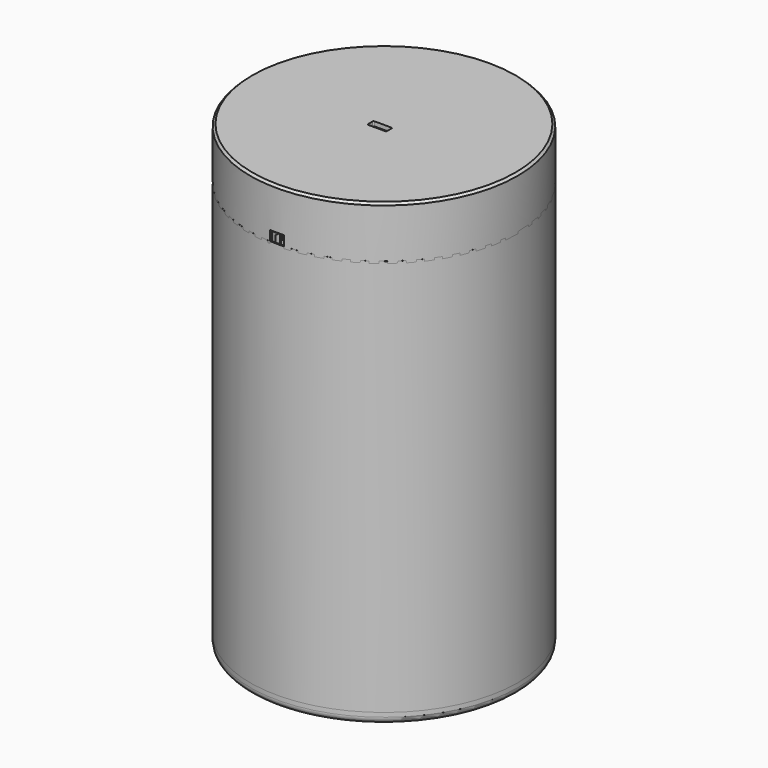
from build123d import *

# Parameters (mm, degrees)
SKETCH_R                = 60
SKETCH_R_2              = 59.5
PAD_DEPTH               = 180
SKETCH001_R             = 59.4
SKETCH001_R_2           = 44.4
PAD001_DEPTH            = 1.5
POCKET_DEPTH            = 1.5
POLARPATTERN_COUNT      = 20
PAD002_DEPTH            = 1.6
FILLET_R                = 3
BODY002_PLACEMENT_ANGLE = -1
SKETCH005_R             = 59.4
SKETCH005_R_2           = 44.4
PAD003_DEPTH            = 1.5
POCKET001_DEPTH         = 1.5
POLARPATTERN001_COUNT   = 20
SKETCH007_R             = 59.4
SKETCH007_R_2           = 44.4
PAD004_DEPTH            = 1.5
POCKET002_DEPTH         = 1.5
POLARPATTERN002_COUNT   = 20
SKETCH008_R             = 59.4
SKETCH008_R_2           = 44.4
PAD005_DEPTH            = 1.5
POCKET003_DEPTH         = 1.5
POLARPATTERN003_COUNT   = 20
SKETCH010_R             = 59.4
SKETCH010_R_2           = 44.4
PAD006_DEPTH            = 1.5
POCKET004_DEPTH         = 1.5
POLARPATTERN004_COUNT   = 20
SKETCH012_R             = 59.4
SKETCH012_R_2           = 44.4
PAD007_DEPTH            = 1.5
POCKET005_DEPTH         = 1.5
POLARPATTERN005_COUNT   = 20
SKETCH014_R             = 59.4
SKETCH014_R_2           = 44.4
PAD008_DEPTH            = 1.5
POCKET006_DEPTH         = 1.5
POLARPATTERN006_COUNT   = 20
SKETCH016_R             = 59.4
SKETCH016_R_2           = 44.4
PAD009_DEPTH            = 1.5
POCKET007_DEPTH         = 1.5
POLARPATTERN007_COUNT   = 20
SKETCH019_R             = 59.4
SKETCH019_R_2           = 44.4
PAD010_DEPTH            = 1.5
POCKET008_DEPTH         = 1.5
POLARPATTERN008_COUNT   = 20
PAD011_DEPTH            = 1.6
FILLET001_R             = 3
BODY011_PLACEMENT_ANGLE = -19
PAD012_DEPTH            = 1.6
FILLET002_R             = 3
BODY012_PLACEMENT_ANGLE = -37
PAD013_DEPTH            = 1.6
FILLET003_R             = 3
BODY013_PLACEMENT_ANGLE = 55
PAD014_DEPTH            = 1.6
FILLET004_R             = 3
BODY014_PLACEMENT_ANGLE = -73
PAD015_DEPTH            = 1.6
FILLET005_R             = 3
BODY015_PLACEMENT_ANGLE = 91
PAD016_DEPTH            = 1.6
FILLET006_R             = 3
BODY016_PLACEMENT_ANGLE = 109
PAD017_DEPTH            = 1.6
FILLET007_R             = 3
BODY017_PLACEMENT_ANGLE = 233
PAD018_DEPTH            = 1.6
FILLET008_R             = 3
BODY018_PLACEMENT_ANGLE = 215
PAD019_DEPTH            = 1.6
FILLET009_R             = 3
BODY019_PLACEMENT_ANGLE = 197
PAD020_DEPTH            = 1.6
FILLET010_R             = 3
BODY020_PLACEMENT_ANGLE = 179
PAD021_DEPTH            = 1.6
FILLET011_R             = 3
BODY021_PLACEMENT_ANGLE = 161
PAD022_DEPTH            = 1.6
FILLET012_R             = 3
BODY022_PLACEMENT_ANGLE = 143
PAD023_DEPTH            = 1.6
FILLET013_R             = 3
BODY023_PLACEMENT_ANGLE = 125
PAD024_DEPTH            = 1.6
FILLET014_R             = 3
BODY024_PLACEMENT_ANGLE = 107
PAD025_DEPTH            = 1.6
FILLET015_R             = 3
BODY025_PLACEMENT_ANGLE = 89
PAD026_DEPTH            = 1.6
FILLET016_R             = 3
BODY026_PLACEMENT_ANGLE = 71
PAD027_DEPTH            = 1.6
FILLET017_R             = 3
BODY027_PLACEMENT_ANGLE = 53
PAD028_DEPTH            = 1.6
FILLET018_R             = 3
BODY028_PLACEMENT_ANGLE = 35
PAD029_DEPTH            = 1.6
FILLET019_R             = 3
BODY029_PLACEMENT_ANGLE = 17
SKETCH039_R             = 60
PAD030_DEPTH            = 9.9
SKETCH040_R             = 57.4
POCKET009_DEPTH         = 8
FILLET020_R             = 3
SKETCH041_R             = 60
SKETCH041_R_2           = 59.4
POCKET010_DEPTH         = 5
CHAMFER_SIZE            = 1
SKETCH042_R             = 60
PAD031_DEPTH            = 30
SKETCH043_R             = 57.4
POCKET011_DEPTH         = 8
SKETCH044_R             = 60
SKETCH044_R_2           = 59.4
POCKET012_DEPTH         = 7
CHAMFER001_SIZE         = 0.5
POCKET013_DEPTH         = 11
POCKET014_DEPTH         = 17
SKETCH047_W             = 28.5
SKETCH047_H             = 9
POCKET015_DEPTH         = 20
POCKET016_DEPTH         = 2.001
CHAMFER002_SIZE         = 1
CHAMFER003_SIZE         = 0.5
CHAMFER004_SIZE         = 1
CHAMFER005_SIZE         = 1
BODY031_PLACEMENT_ANGLE = 180


with BuildPart() as shade:
    # Sketch → Pad (new body)
    with BuildSketch(Plane.XY):
        Circle(SKETCH_R)
        Circle(SKETCH_R_2, mode=Mode.SUBTRACT)
    extrude(amount=PAD_DEPTH)


with BuildPart() as circular_strut1:
    # Sketch001 → Pad001 (new body)
    with BuildSketch(Plane.XY):
        Circle(SKETCH001_R)
        Circle(SKETCH001_R_2, mode=Mode.SUBTRACT)
    extrude(amount=PAD001_DEPTH)

    # Sketch002 (on DatumPlane) → Pocket (cut)
    with BuildSketch(Plane.XY.offset(1.5)):
        Polygon((-0.85, -44.391864), (0.849963, -44.391864), (0.85, -51.391864), (-0.85, -51.391864), align=None)
        Polygon((1.849963, -44.361443), (2.157794, -46.337611), (12.038634, -44.798455), (11.730803, -42.822287), align=None)
    pocket = extrude(amount=-POCKET_DEPTH, mode=Mode.SUBTRACT)

    # PolarPattern: Pocket ×20 about axis
    polarpattern_axis = Axis((0, 0, 1.5), (0, 0, 1))
    for i in range(1, POLARPATTERN_COUNT):
        add(pocket.rotate(polarpattern_axis, i * 360 / POLARPATTERN_COUNT), mode=Mode.SUBTRACT)


with BuildPart() as circular_strut1_1:
    # Body001 placement: moved
    add(circular_strut1.part.moved(Location((0, 0, 23.5))))


with BuildPart() as vertical_strut1:
    # Sketch003 → Pad002 (new body)
    with BuildSketch(Plane.YZ):
        Polygon((-44, 0), (-44, 180), (-56.5, 180), (-56.5, 170), (-59, 170), (-59, 161.6), (-51, 161.6), (-51, 160.2), (-59, 160.2), (-59, 144.7), (-51, 144.7), (-51, 143.3), (-59, 143.3), (-59, 127.8), (-51, 127.8), (-51, 126.4), (-59, 126.4), (-59, 110.9), (-51, 110.9), (-51, 109.5), (-59, 109.5), (-59, 94), (-51, 94), (-51, 92.6), (-59, 92.6), (-59, 77.1), (-51, 77.1), (-51, 75.7), (-59, 75.7), (-59, 60.2), (-51, 60.2), (-51, 58.8), (-59, 58.8), (-59, 43.3), (-51, 43.3), (-51, 41.9), (-59, 41.9), (-59, 25), (-51, 25), (-51, 23.6), (-59, 23.6), (-59, 10), (-56.5, 10), (-56.5, 0), align=None)
    extrude(amount=PAD002_DEPTH)

    # Fillet
    fillet_edges = [vertical_strut1.edges().sort_by_distance(p)[0] for p in [
        (0.8, -44, 180),
        (0.8, -44, 0),
    ]]
    fillet(fillet_edges, radius=FILLET_R)


with BuildPart() as vertical_strut1_1:
    # Body002 placement: moved
    add(vertical_strut1.part.rotate(Axis((0, 0, 0), (0, 0, 1)), BODY002_PLACEMENT_ANGLE))


with BuildPart() as circular_strut2:
    # Sketch005 → Pad003 (new body)
    with BuildSketch(Plane.XY):
        Circle(SKETCH005_R)
        Circle(SKETCH005_R_2, mode=Mode.SUBTRACT)
    extrude(amount=PAD003_DEPTH)

    # Sketch004 (on DatumPlane) → Pocket001 (cut)
    with BuildSketch(Plane.XY.offset(1.5)):
        Polygon((-0.85, -44.391864), (0.849963, -44.391864), (0.85, -51.391864), (-0.85, -51.391864), align=None)
        Polygon((1.849963, -44.361443), (2.157794, -46.337611), (12.038634, -44.798455), (11.730803, -42.822287), align=None)
    pocket001 = extrude(amount=-POCKET001_DEPTH, mode=Mode.SUBTRACT)

    # PolarPattern001: Pocket001 ×20 about axis
    polarpattern001_axis = Axis((0, 0, 1.5), (0, 0, 1))
    for i in range(1, POLARPATTERN001_COUNT):
        add(pocket001.rotate(polarpattern001_axis, i * 360 / POLARPATTERN001_COUNT), mode=Mode.SUBTRACT)


with BuildPart() as circular_strut2_1:
    # Body003 placement: moved
    add(circular_strut2.part.moved(Location((0, 0, 41.9))))


with BuildPart() as circular_strut003:
    # Sketch007 → Pad004 (new body)
    with BuildSketch(Plane.XY):
        Circle(SKETCH007_R)
        Circle(SKETCH007_R_2, mode=Mode.SUBTRACT)
    extrude(amount=PAD004_DEPTH)

    # Sketch006 (on DatumPlane) → Pocket002 (cut)
    with BuildSketch(Plane.XY.offset(1.5)):
        Polygon((-0.85, -44.391864), (0.849963, -44.391864), (0.85, -51.391864), (-0.85, -51.391864), align=None)
        Polygon((1.849963, -44.361443), (2.157794, -46.337611), (12.038634, -44.798455), (11.730803, -42.822287), align=None)
    pocket002 = extrude(amount=-POCKET002_DEPTH, mode=Mode.SUBTRACT)

    # PolarPattern002: Pocket002 ×20 about axis
    polarpattern002_axis = Axis((0, 0, 1.5), (0, 0, 1))
    for i in range(1, POLARPATTERN002_COUNT):
        add(pocket002.rotate(polarpattern002_axis, i * 360 / POLARPATTERN002_COUNT), mode=Mode.SUBTRACT)


with BuildPart() as circular_strut003_1:
    # Body004 placement: moved
    add(circular_strut003.part.moved(Location((0, 0, 58.8))))


with BuildPart() as circular_strut004:
    # Sketch008 → Pad005 (new body)
    with BuildSketch(Plane.XY):
        Circle(SKETCH008_R)
        Circle(SKETCH008_R_2, mode=Mode.SUBTRACT)
    extrude(amount=PAD005_DEPTH)

    # Sketch009 (on DatumPlane) → Pocket003 (cut)
    with BuildSketch(Plane.XY.offset(1.5)):
        Polygon((-0.85, -44.391864), (0.849963, -44.391864), (0.85, -51.391864), (-0.85, -51.391864), align=None)
        Polygon((1.849963, -44.361443), (2.157794, -46.337611), (12.038634, -44.798455), (11.730803, -42.822287), align=None)
    pocket003 = extrude(amount=-POCKET003_DEPTH, mode=Mode.SUBTRACT)

    # PolarPattern003: Pocket003 ×20 about axis
    polarpattern003_axis = Axis((0, 0, 1.5), (0, 0, 1))
    for i in range(1, POLARPATTERN003_COUNT):
        add(pocket003.rotate(polarpattern003_axis, i * 360 / POLARPATTERN003_COUNT), mode=Mode.SUBTRACT)


with BuildPart() as circular_strut004_1:
    # Body005 placement: moved
    add(circular_strut004.part.moved(Location((0, 0, 75.6))))


with BuildPart() as circular_strut005:
    # Sketch010 → Pad006 (new body)
    with BuildSketch(Plane.XY):
        Circle(SKETCH010_R)
        Circle(SKETCH010_R_2, mode=Mode.SUBTRACT)
    extrude(amount=PAD006_DEPTH)

    # Sketch011 (on DatumPlane) → Pocket004 (cut)
    with BuildSketch(Plane.XY.offset(1.5)):
        Polygon((-0.85, -44.391864), (0.849963, -44.391864), (0.85, -51.391864), (-0.85, -51.391864), align=None)
        Polygon((1.849963, -44.361443), (2.157794, -46.337611), (12.038634, -44.798455), (11.730803, -42.822287), align=None)
    pocket004 = extrude(amount=-POCKET004_DEPTH, mode=Mode.SUBTRACT)

    # PolarPattern004: Pocket004 ×20 about axis
    polarpattern004_axis = Axis((0, 0, 1.5), (0, 0, 1))
    for i in range(1, POLARPATTERN004_COUNT):
        add(pocket004.rotate(polarpattern004_axis, i * 360 / POLARPATTERN004_COUNT), mode=Mode.SUBTRACT)


with BuildPart() as circular_strut005_1:
    # Body006 placement: moved
    add(circular_strut005.part.moved(Location((0, 0, 92.4))))


with BuildPart() as circular_strut006:
    # Sketch012 → Pad007 (new body)
    with BuildSketch(Plane.XY):
        Circle(SKETCH012_R)
        Circle(SKETCH012_R_2, mode=Mode.SUBTRACT)
    extrude(amount=PAD007_DEPTH)

    # Sketch013 (on DatumPlane) → Pocket005 (cut)
    with BuildSketch(Plane.XY.offset(1.5)):
        Polygon((-0.85, -44.391864), (0.849963, -44.391864), (0.85, -51.391864), (-0.85, -51.391864), align=None)
        Polygon((1.849963, -44.361443), (2.157794, -46.337611), (12.038634, -44.798455), (11.730803, -42.822287), align=None)
    pocket005 = extrude(amount=-POCKET005_DEPTH, mode=Mode.SUBTRACT)

    # PolarPattern005: Pocket005 ×20 about axis
    polarpattern005_axis = Axis((0, 0, 1.5), (0, 0, 1))
    for i in range(1, POLARPATTERN005_COUNT):
        add(pocket005.rotate(polarpattern005_axis, i * 360 / POLARPATTERN005_COUNT), mode=Mode.SUBTRACT)


with BuildPart() as circular_strut006_1:
    # Body007 placement: moved
    add(circular_strut006.part.moved(Location((0, 0, 109.2))))


with BuildPart() as circular_strut007:
    # Sketch014 → Pad008 (new body)
    with BuildSketch(Plane.XY):
        Circle(SKETCH014_R)
        Circle(SKETCH014_R_2, mode=Mode.SUBTRACT)
    extrude(amount=PAD008_DEPTH)

    # Sketch015 (on DatumPlane) → Pocket006 (cut)
    with BuildSketch(Plane.XY.offset(1.5)):
        Polygon((-0.85, -44.391864), (0.849963, -44.391864), (0.85, -51.391864), (-0.85, -51.391864), align=None)
        Polygon((1.849963, -44.361443), (2.157794, -46.337611), (12.038634, -44.798455), (11.730803, -42.822287), align=None)
    pocket006 = extrude(amount=-POCKET006_DEPTH, mode=Mode.SUBTRACT)

    # PolarPattern006: Pocket006 ×20 about axis
    polarpattern006_axis = Axis((0, 0, 1.5), (0, 0, 1))
    for i in range(1, POLARPATTERN006_COUNT):
        add(pocket006.rotate(polarpattern006_axis, i * 360 / POLARPATTERN006_COUNT), mode=Mode.SUBTRACT)


with BuildPart() as circular_strut007_1:
    # Body008 placement: moved
    add(circular_strut007.part.moved(Location((0, 0, 126))))


with BuildPart() as circular_strut008:
    # Sketch016 → Pad009 (new body)
    with BuildSketch(Plane.XY):
        Circle(SKETCH016_R)
        Circle(SKETCH016_R_2, mode=Mode.SUBTRACT)
    extrude(amount=PAD009_DEPTH)

    # Sketch017 (on DatumPlane) → Pocket007 (cut)
    with BuildSketch(Plane.XY.offset(1.5)):
        Polygon((-0.85, -44.391864), (0.849963, -44.391864), (0.85, -51.391864), (-0.85, -51.391864), align=None)
        Polygon((1.849963, -44.361443), (2.157794, -46.337611), (12.038634, -44.798455), (11.730803, -42.822287), align=None)
    pocket007 = extrude(amount=-POCKET007_DEPTH, mode=Mode.SUBTRACT)

    # PolarPattern007: Pocket007 ×20 about axis
    polarpattern007_axis = Axis((0, 0, 1.5), (0, 0, 1))
    for i in range(1, POLARPATTERN007_COUNT):
        add(pocket007.rotate(polarpattern007_axis, i * 360 / POLARPATTERN007_COUNT), mode=Mode.SUBTRACT)


with BuildPart() as circular_strut008_1:
    # Body009 placement: moved
    add(circular_strut008.part.moved(Location((0, 0, 142.8))))


with BuildPart() as circular_strut009:
    # Sketch019 → Pad010 (new body)
    with BuildSketch(Plane.XY):
        Circle(SKETCH019_R)
        Circle(SKETCH019_R_2, mode=Mode.SUBTRACT)
    extrude(amount=PAD010_DEPTH)

    # Sketch018 (on DatumPlane) → Pocket008 (cut)
    with BuildSketch(Plane.XY.offset(1.5)):
        Polygon((-0.85, -44.391864), (0.849963, -44.391864), (0.85, -51.391864), (-0.85, -51.391864), align=None)
        Polygon((1.849963, -44.361443), (2.157794, -46.337611), (12.038634, -44.798455), (11.730803, -42.822287), align=None)
    pocket008 = extrude(amount=-POCKET008_DEPTH, mode=Mode.SUBTRACT)

    # PolarPattern008: Pocket008 ×20 about axis
    polarpattern008_axis = Axis((0, 0, 1.5), (0, 0, 1))
    for i in range(1, POLARPATTERN008_COUNT):
        add(pocket008.rotate(polarpattern008_axis, i * 360 / POLARPATTERN008_COUNT), mode=Mode.SUBTRACT)


with BuildPart() as circular_strut009_1:
    # Body010 placement: moved
    add(circular_strut009.part.moved(Location((0, 0, 159.6))))


with BuildPart() as vertical_strut002:
    # Sketch020 → Pad011 (new body)
    with BuildSketch(Plane.YZ):
        Polygon((-44, 0), (-44, 180), (-56.5, 180), (-56.5, 170), (-59, 170), (-59, 161.6), (-51, 161.6), (-51, 160.2), (-59, 160.2), (-59, 144.7), (-51, 144.7), (-51, 143.3), (-59, 143.3), (-59, 127.8), (-51, 127.8), (-51, 126.4), (-59, 126.4), (-59, 110.9), (-51, 110.9), (-51, 109.5), (-59, 109.5), (-59, 94), (-51, 94), (-51, 92.6), (-59, 92.6), (-59, 77.1), (-51, 77.1), (-51, 75.7), (-59, 75.7), (-59, 60.2), (-51, 60.2), (-51, 58.8), (-59, 58.8), (-59, 43.3), (-51, 43.3), (-51, 41.9), (-59, 41.9), (-59, 25), (-51, 25), (-51, 23.6), (-59, 23.6), (-59, 10), (-56.5, 10), (-56.5, 0), align=None)
    extrude(amount=PAD011_DEPTH)

    # Fillet001
    fillet001_edges = [vertical_strut002.edges().sort_by_distance(p)[0] for p in [
        (0.8, -44, 180),
        (0.8, -44, 0),
    ]]
    fillet(fillet001_edges, radius=FILLET001_R)


with BuildPart() as vertical_strut002_1:
    # Body011 placement: moved
    add(vertical_strut002.part.rotate(Axis((0, 0, 0), (0, 0, 1)), BODY011_PLACEMENT_ANGLE))


with BuildPart() as vertical_strut003:
    # Sketch021 → Pad012 (new body)
    with BuildSketch(Plane.YZ):
        Polygon((-44, 0), (-44, 180), (-56.5, 180), (-56.5, 170), (-59, 170), (-59, 161.6), (-51, 161.6), (-51, 160.2), (-59, 160.2), (-59, 144.7), (-51, 144.7), (-51, 143.3), (-59, 143.3), (-59, 127.8), (-51, 127.8), (-51, 126.4), (-59, 126.4), (-59, 110.9), (-51, 110.9), (-51, 109.5), (-59, 109.5), (-59, 94), (-51, 94), (-51, 92.6), (-59, 92.6), (-59, 77.1), (-51, 77.1), (-51, 75.7), (-59, 75.7), (-59, 60.2), (-51, 60.2), (-51, 58.8), (-59, 58.8), (-59, 43.3), (-51, 43.3), (-51, 41.9), (-59, 41.9), (-59, 25), (-51, 25), (-51, 23.6), (-59, 23.6), (-59, 10), (-56.5, 10), (-56.5, 0), align=None)
    extrude(amount=PAD012_DEPTH)

    # Fillet002
    fillet002_edges = [vertical_strut003.edges().sort_by_distance(p)[0] for p in [
        (0.8, -44, 180),
        (0.8, -44, 0),
    ]]
    fillet(fillet002_edges, radius=FILLET002_R)


with BuildPart() as vertical_strut003_1:
    # Body012 placement: moved
    add(vertical_strut003.part.rotate(Axis((0, 0, 0), (0, 0, 1)), BODY012_PLACEMENT_ANGLE))


with BuildPart() as vertical_strut004:
    # Sketch022 → Pad013 (new body)
    with BuildSketch(Plane.YZ):
        Polygon((-44, 0), (-44, 180), (-56.5, 180), (-56.5, 170), (-59, 170), (-59, 161.6), (-51, 161.6), (-51, 160.2), (-59, 160.2), (-59, 144.7), (-51, 144.7), (-51, 143.3), (-59, 143.3), (-59, 127.8), (-51, 127.8), (-51, 126.4), (-59, 126.4), (-59, 110.9), (-51, 110.9), (-51, 109.5), (-59, 109.5), (-59, 94), (-51, 94), (-51, 92.6), (-59, 92.6), (-59, 77.1), (-51, 77.1), (-51, 75.7), (-59, 75.7), (-59, 60.2), (-51, 60.2), (-51, 58.8), (-59, 58.8), (-59, 43.3), (-51, 43.3), (-51, 41.9), (-59, 41.9), (-59, 25), (-51, 25), (-51, 23.6), (-59, 23.6), (-59, 10), (-56.5, 10), (-56.5, 0), align=None)
    extrude(amount=PAD013_DEPTH)

    # Fillet003
    fillet003_edges = [vertical_strut004.edges().sort_by_distance(p)[0] for p in [
        (0.8, -44, 180),
        (0.8, -44, 0),
    ]]
    fillet(fillet003_edges, radius=FILLET003_R)


with BuildPart() as vertical_strut004_1:
    # Body013 placement: moved
    add(vertical_strut004.part.rotate(Axis((0, 0, 0), (0, 0, -1)), BODY013_PLACEMENT_ANGLE))


with BuildPart() as vertical_strut005:
    # Sketch023 → Pad014 (new body)
    with BuildSketch(Plane.YZ):
        Polygon((-44, 0), (-44, 180), (-56.5, 180), (-56.5, 170), (-59, 170), (-59, 161.6), (-51, 161.6), (-51, 160.2), (-59, 160.2), (-59, 144.7), (-51, 144.7), (-51, 143.3), (-59, 143.3), (-59, 127.8), (-51, 127.8), (-51, 126.4), (-59, 126.4), (-59, 110.9), (-51, 110.9), (-51, 109.5), (-59, 109.5), (-59, 94), (-51, 94), (-51, 92.6), (-59, 92.6), (-59, 77.1), (-51, 77.1), (-51, 75.7), (-59, 75.7), (-59, 60.2), (-51, 60.2), (-51, 58.8), (-59, 58.8), (-59, 43.3), (-51, 43.3), (-51, 41.9), (-59, 41.9), (-59, 25), (-51, 25), (-51, 23.6), (-59, 23.6), (-59, 10), (-56.5, 10), (-56.5, 0), align=None)
    extrude(amount=PAD014_DEPTH)

    # Fillet004
    fillet004_edges = [vertical_strut005.edges().sort_by_distance(p)[0] for p in [
        (0.8, -44, 180),
        (0.8, -44, 0),
    ]]
    fillet(fillet004_edges, radius=FILLET004_R)


with BuildPart() as vertical_strut005_1:
    # Body014 placement: moved
    add(vertical_strut005.part.rotate(Axis((0, 0, 0), (0, 0, 1)), BODY014_PLACEMENT_ANGLE))


with BuildPart() as vertical_strut006:
    # Sketch024 → Pad015 (new body)
    with BuildSketch(Plane.YZ):
        Polygon((-44, 0), (-44, 180), (-56.5, 180), (-56.5, 170), (-59, 170), (-59, 161.6), (-51, 161.6), (-51, 160.2), (-59, 160.2), (-59, 144.7), (-51, 144.7), (-51, 143.3), (-59, 143.3), (-59, 127.8), (-51, 127.8), (-51, 126.4), (-59, 126.4), (-59, 110.9), (-51, 110.9), (-51, 109.5), (-59, 109.5), (-59, 94), (-51, 94), (-51, 92.6), (-59, 92.6), (-59, 77.1), (-51, 77.1), (-51, 75.7), (-59, 75.7), (-59, 60.2), (-51, 60.2), (-51, 58.8), (-59, 58.8), (-59, 43.3), (-51, 43.3), (-51, 41.9), (-59, 41.9), (-59, 25), (-51, 25), (-51, 23.6), (-59, 23.6), (-59, 10), (-56.5, 10), (-56.5, 0), align=None)
    extrude(amount=PAD015_DEPTH)

    # Fillet005
    fillet005_edges = [vertical_strut006.edges().sort_by_distance(p)[0] for p in [
        (0.8, -44, 180),
        (0.8, -44, 0),
    ]]
    fillet(fillet005_edges, radius=FILLET005_R)


with BuildPart() as vertical_strut006_1:
    # Body015 placement: moved
    add(vertical_strut006.part.rotate(Axis((0, 0, 0), (0, 0, -1)), BODY015_PLACEMENT_ANGLE))


with BuildPart() as vertical_strut007:
    # Sketch025 → Pad016 (new body)
    with BuildSketch(Plane.YZ):
        Polygon((-44, 0), (-44, 180), (-56.5, 180), (-56.5, 170), (-59, 170), (-59, 161.6), (-51, 161.6), (-51, 160.2), (-59, 160.2), (-59, 144.7), (-51, 144.7), (-51, 143.3), (-59, 143.3), (-59, 127.8), (-51, 127.8), (-51, 126.4), (-59, 126.4), (-59, 110.9), (-51, 110.9), (-51, 109.5), (-59, 109.5), (-59, 94), (-51, 94), (-51, 92.6), (-59, 92.6), (-59, 77.1), (-51, 77.1), (-51, 75.7), (-59, 75.7), (-59, 60.2), (-51, 60.2), (-51, 58.8), (-59, 58.8), (-59, 43.3), (-51, 43.3), (-51, 41.9), (-59, 41.9), (-59, 25), (-51, 25), (-51, 23.6), (-59, 23.6), (-59, 10), (-56.5, 10), (-56.5, 0), align=None)
    extrude(amount=PAD016_DEPTH)

    # Fillet006
    fillet006_edges = [vertical_strut007.edges().sort_by_distance(p)[0] for p in [
        (0.8, -44, 180),
        (0.8, -44, 0),
    ]]
    fillet(fillet006_edges, radius=FILLET006_R)


with BuildPart() as vertical_strut007_1:
    # Body016 placement: moved
    add(vertical_strut007.part.rotate(Axis((0, 0, 0), (0, 0, -1)), BODY016_PLACEMENT_ANGLE))


with BuildPart() as vertical_strut008:
    # Sketch026 → Pad017 (new body)
    with BuildSketch(Plane.YZ):
        Polygon((-44, 0), (-44, 180), (-56.5, 180), (-56.5, 170), (-59, 170), (-59, 161.6), (-51, 161.6), (-51, 160.2), (-59, 160.2), (-59, 144.7), (-51, 144.7), (-51, 143.3), (-59, 143.3), (-59, 127.8), (-51, 127.8), (-51, 126.4), (-59, 126.4), (-59, 110.9), (-51, 110.9), (-51, 109.5), (-59, 109.5), (-59, 94), (-51, 94), (-51, 92.6), (-59, 92.6), (-59, 77.1), (-51, 77.1), (-51, 75.7), (-59, 75.7), (-59, 60.2), (-51, 60.2), (-51, 58.8), (-59, 58.8), (-59, 43.3), (-51, 43.3), (-51, 41.9), (-59, 41.9), (-59, 25), (-51, 25), (-51, 23.6), (-59, 23.6), (-59, 10), (-56.5, 10), (-56.5, 0), align=None)
    extrude(amount=PAD017_DEPTH)

    # Fillet007
    fillet007_edges = [vertical_strut008.edges().sort_by_distance(p)[0] for p in [
        (0.8, -44, 180),
        (0.8, -44, 0),
    ]]
    fillet(fillet007_edges, radius=FILLET007_R)


with BuildPart() as vertical_strut008_1:
    # Body017 placement: moved
    add(vertical_strut008.part.rotate(Axis((0, 0, 0), (0, 0, 1)), BODY017_PLACEMENT_ANGLE))


with BuildPart() as vertical_strut009:
    # Sketch027 → Pad018 (new body)
    with BuildSketch(Plane.YZ):
        Polygon((-44, 0), (-44, 180), (-56.5, 180), (-56.5, 170), (-59, 170), (-59, 161.6), (-51, 161.6), (-51, 160.2), (-59, 160.2), (-59, 144.7), (-51, 144.7), (-51, 143.3), (-59, 143.3), (-59, 127.8), (-51, 127.8), (-51, 126.4), (-59, 126.4), (-59, 110.9), (-51, 110.9), (-51, 109.5), (-59, 109.5), (-59, 94), (-51, 94), (-51, 92.6), (-59, 92.6), (-59, 77.1), (-51, 77.1), (-51, 75.7), (-59, 75.7), (-59, 60.2), (-51, 60.2), (-51, 58.8), (-59, 58.8), (-59, 43.3), (-51, 43.3), (-51, 41.9), (-59, 41.9), (-59, 25), (-51, 25), (-51, 23.6), (-59, 23.6), (-59, 10), (-56.5, 10), (-56.5, 0), align=None)
    extrude(amount=PAD018_DEPTH)

    # Fillet008
    fillet008_edges = [vertical_strut009.edges().sort_by_distance(p)[0] for p in [
        (0.8, -44, 180),
        (0.8, -44, 0),
    ]]
    fillet(fillet008_edges, radius=FILLET008_R)


with BuildPart() as vertical_strut009_1:
    # Body018 placement: moved
    add(vertical_strut009.part.rotate(Axis((0, 0, 0), (0, 0, 1)), BODY018_PLACEMENT_ANGLE))


with BuildPart() as vertical_strut010:
    # Sketch028 → Pad019 (new body)
    with BuildSketch(Plane.YZ):
        Polygon((-44, 0), (-44, 180), (-56.5, 180), (-56.5, 170), (-59, 170), (-59, 161.6), (-51, 161.6), (-51, 160.2), (-59, 160.2), (-59, 144.7), (-51, 144.7), (-51, 143.3), (-59, 143.3), (-59, 127.8), (-51, 127.8), (-51, 126.4), (-59, 126.4), (-59, 110.9), (-51, 110.9), (-51, 109.5), (-59, 109.5), (-59, 94), (-51, 94), (-51, 92.6), (-59, 92.6), (-59, 77.1), (-51, 77.1), (-51, 75.7), (-59, 75.7), (-59, 60.2), (-51, 60.2), (-51, 58.8), (-59, 58.8), (-59, 43.3), (-51, 43.3), (-51, 41.9), (-59, 41.9), (-59, 25), (-51, 25), (-51, 23.6), (-59, 23.6), (-59, 10), (-56.5, 10), (-56.5, 0), align=None)
    extrude(amount=PAD019_DEPTH)

    # Fillet009
    fillet009_edges = [vertical_strut010.edges().sort_by_distance(p)[0] for p in [
        (0.8, -44, 180),
        (0.8, -44, 0),
    ]]
    fillet(fillet009_edges, radius=FILLET009_R)


with BuildPart() as vertical_strut010_1:
    # Body019 placement: moved
    add(vertical_strut010.part.rotate(Axis((0, 0, 0), (0, 0, 1)), BODY019_PLACEMENT_ANGLE))


with BuildPart() as vertical_strut011:
    # Sketch029 → Pad020 (new body)
    with BuildSketch(Plane.YZ):
        Polygon((-44, 0), (-44, 180), (-56.5, 180), (-56.5, 170), (-59, 170), (-59, 161.6), (-51, 161.6), (-51, 160.2), (-59, 160.2), (-59, 144.7), (-51, 144.7), (-51, 143.3), (-59, 143.3), (-59, 127.8), (-51, 127.8), (-51, 126.4), (-59, 126.4), (-59, 110.9), (-51, 110.9), (-51, 109.5), (-59, 109.5), (-59, 94), (-51, 94), (-51, 92.6), (-59, 92.6), (-59, 77.1), (-51, 77.1), (-51, 75.7), (-59, 75.7), (-59, 60.2), (-51, 60.2), (-51, 58.8), (-59, 58.8), (-59, 43.3), (-51, 43.3), (-51, 41.9), (-59, 41.9), (-59, 25), (-51, 25), (-51, 23.6), (-59, 23.6), (-59, 10), (-56.5, 10), (-56.5, 0), align=None)
    extrude(amount=PAD020_DEPTH)

    # Fillet010
    fillet010_edges = [vertical_strut011.edges().sort_by_distance(p)[0] for p in [
        (0.8, -44, 180),
        (0.8, -44, 0),
    ]]
    fillet(fillet010_edges, radius=FILLET010_R)


with BuildPart() as vertical_strut011_1:
    # Body020 placement: moved
    add(vertical_strut011.part.rotate(Axis((0, 0, 0), (0, 0, 1)), BODY020_PLACEMENT_ANGLE))


with BuildPart() as vertical_strut012:
    # Sketch030 → Pad021 (new body)
    with BuildSketch(Plane.YZ):
        Polygon((-44, 0), (-44, 180), (-56.5, 180), (-56.5, 170), (-59, 170), (-59, 161.6), (-51, 161.6), (-51, 160.2), (-59, 160.2), (-59, 144.7), (-51, 144.7), (-51, 143.3), (-59, 143.3), (-59, 127.8), (-51, 127.8), (-51, 126.4), (-59, 126.4), (-59, 110.9), (-51, 110.9), (-51, 109.5), (-59, 109.5), (-59, 94), (-51, 94), (-51, 92.6), (-59, 92.6), (-59, 77.1), (-51, 77.1), (-51, 75.7), (-59, 75.7), (-59, 60.2), (-51, 60.2), (-51, 58.8), (-59, 58.8), (-59, 43.3), (-51, 43.3), (-51, 41.9), (-59, 41.9), (-59, 25), (-51, 25), (-51, 23.6), (-59, 23.6), (-59, 10), (-56.5, 10), (-56.5, 0), align=None)
    extrude(amount=PAD021_DEPTH)

    # Fillet011
    fillet011_edges = [vertical_strut012.edges().sort_by_distance(p)[0] for p in [
        (0.8, -44, 180),
        (0.8, -44, 0),
    ]]
    fillet(fillet011_edges, radius=FILLET011_R)


with BuildPart() as vertical_strut012_1:
    # Body021 placement: moved
    add(vertical_strut012.part.rotate(Axis((0, 0, 0), (0, 0, 1)), BODY021_PLACEMENT_ANGLE))


with BuildPart() as vertical_strut013:
    # Sketch031 → Pad022 (new body)
    with BuildSketch(Plane.YZ):
        Polygon((-44, 0), (-44, 180), (-56.5, 180), (-56.5, 170), (-59, 170), (-59, 161.6), (-51, 161.6), (-51, 160.2), (-59, 160.2), (-59, 144.7), (-51, 144.7), (-51, 143.3), (-59, 143.3), (-59, 127.8), (-51, 127.8), (-51, 126.4), (-59, 126.4), (-59, 110.9), (-51, 110.9), (-51, 109.5), (-59, 109.5), (-59, 94), (-51, 94), (-51, 92.6), (-59, 92.6), (-59, 77.1), (-51, 77.1), (-51, 75.7), (-59, 75.7), (-59, 60.2), (-51, 60.2), (-51, 58.8), (-59, 58.8), (-59, 43.3), (-51, 43.3), (-51, 41.9), (-59, 41.9), (-59, 25), (-51, 25), (-51, 23.6), (-59, 23.6), (-59, 10), (-56.5, 10), (-56.5, 0), align=None)
    extrude(amount=PAD022_DEPTH)

    # Fillet012
    fillet012_edges = [vertical_strut013.edges().sort_by_distance(p)[0] for p in [
        (0.8, -44, 180),
        (0.8, -44, 0),
    ]]
    fillet(fillet012_edges, radius=FILLET012_R)


with BuildPart() as vertical_strut013_1:
    # Body022 placement: moved
    add(vertical_strut013.part.rotate(Axis((0, 0, 0), (0, 0, 1)), BODY022_PLACEMENT_ANGLE))


with BuildPart() as vertical_strut014:
    # Sketch032 → Pad023 (new body)
    with BuildSketch(Plane.YZ):
        Polygon((-44, 0), (-44, 180), (-56.5, 180), (-56.5, 170), (-59, 170), (-59, 161.6), (-51, 161.6), (-51, 160.2), (-59, 160.2), (-59, 144.7), (-51, 144.7), (-51, 143.3), (-59, 143.3), (-59, 127.8), (-51, 127.8), (-51, 126.4), (-59, 126.4), (-59, 110.9), (-51, 110.9), (-51, 109.5), (-59, 109.5), (-59, 94), (-51, 94), (-51, 92.6), (-59, 92.6), (-59, 77.1), (-51, 77.1), (-51, 75.7), (-59, 75.7), (-59, 60.2), (-51, 60.2), (-51, 58.8), (-59, 58.8), (-59, 43.3), (-51, 43.3), (-51, 41.9), (-59, 41.9), (-59, 25), (-51, 25), (-51, 23.6), (-59, 23.6), (-59, 10), (-56.5, 10), (-56.5, 0), align=None)
    extrude(amount=PAD023_DEPTH)

    # Fillet013
    fillet013_edges = [vertical_strut014.edges().sort_by_distance(p)[0] for p in [
        (0.8, -44, 180),
        (0.8, -44, 0),
    ]]
    fillet(fillet013_edges, radius=FILLET013_R)


with BuildPart() as vertical_strut014_1:
    # Body023 placement: moved
    add(vertical_strut014.part.rotate(Axis((0, 0, 0), (0, 0, 1)), BODY023_PLACEMENT_ANGLE))


with BuildPart() as vertical_strut015:
    # Sketch033 → Pad024 (new body)
    with BuildSketch(Plane.YZ):
        Polygon((-44, 0), (-44, 180), (-56.5, 180), (-56.5, 170), (-59, 170), (-59, 161.6), (-51, 161.6), (-51, 160.2), (-59, 160.2), (-59, 144.7), (-51, 144.7), (-51, 143.3), (-59, 143.3), (-59, 127.8), (-51, 127.8), (-51, 126.4), (-59, 126.4), (-59, 110.9), (-51, 110.9), (-51, 109.5), (-59, 109.5), (-59, 94), (-51, 94), (-51, 92.6), (-59, 92.6), (-59, 77.1), (-51, 77.1), (-51, 75.7), (-59, 75.7), (-59, 60.2), (-51, 60.2), (-51, 58.8), (-59, 58.8), (-59, 43.3), (-51, 43.3), (-51, 41.9), (-59, 41.9), (-59, 25), (-51, 25), (-51, 23.6), (-59, 23.6), (-59, 10), (-56.5, 10), (-56.5, 0), align=None)
    extrude(amount=PAD024_DEPTH)

    # Fillet014
    fillet014_edges = [vertical_strut015.edges().sort_by_distance(p)[0] for p in [
        (0.8, -44, 180),
        (0.8, -44, 0),
    ]]
    fillet(fillet014_edges, radius=FILLET014_R)


with BuildPart() as vertical_strut015_1:
    # Body024 placement: moved
    add(vertical_strut015.part.rotate(Axis((0, 0, 0), (0, 0, 1)), BODY024_PLACEMENT_ANGLE))


with BuildPart() as vertical_strut016:
    # Sketch034 → Pad025 (new body)
    with BuildSketch(Plane.YZ):
        Polygon((-44, 0), (-44, 180), (-56.5, 180), (-56.5, 170), (-59, 170), (-59, 161.6), (-51, 161.6), (-51, 160.2), (-59, 160.2), (-59, 144.7), (-51, 144.7), (-51, 143.3), (-59, 143.3), (-59, 127.8), (-51, 127.8), (-51, 126.4), (-59, 126.4), (-59, 110.9), (-51, 110.9), (-51, 109.5), (-59, 109.5), (-59, 94), (-51, 94), (-51, 92.6), (-59, 92.6), (-59, 77.1), (-51, 77.1), (-51, 75.7), (-59, 75.7), (-59, 60.2), (-51, 60.2), (-51, 58.8), (-59, 58.8), (-59, 43.3), (-51, 43.3), (-51, 41.9), (-59, 41.9), (-59, 25), (-51, 25), (-51, 23.6), (-59, 23.6), (-59, 10), (-56.5, 10), (-56.5, 0), align=None)
    extrude(amount=PAD025_DEPTH)

    # Fillet015
    fillet015_edges = [vertical_strut016.edges().sort_by_distance(p)[0] for p in [
        (0.8, -44, 180),
        (0.8, -44, 0),
    ]]
    fillet(fillet015_edges, radius=FILLET015_R)


with BuildPart() as vertical_strut016_1:
    # Body025 placement: moved
    add(vertical_strut016.part.rotate(Axis((0, 0, 0), (0, 0, 1)), BODY025_PLACEMENT_ANGLE))


with BuildPart() as vertical_strut017:
    # Sketch035 → Pad026 (new body)
    with BuildSketch(Plane.YZ):
        Polygon((-44, 0), (-44, 180), (-56.5, 180), (-56.5, 170), (-59, 170), (-59, 161.6), (-51, 161.6), (-51, 160.2), (-59, 160.2), (-59, 144.7), (-51, 144.7), (-51, 143.3), (-59, 143.3), (-59, 127.8), (-51, 127.8), (-51, 126.4), (-59, 126.4), (-59, 110.9), (-51, 110.9), (-51, 109.5), (-59, 109.5), (-59, 94), (-51, 94), (-51, 92.6), (-59, 92.6), (-59, 77.1), (-51, 77.1), (-51, 75.7), (-59, 75.7), (-59, 60.2), (-51, 60.2), (-51, 58.8), (-59, 58.8), (-59, 43.3), (-51, 43.3), (-51, 41.9), (-59, 41.9), (-59, 25), (-51, 25), (-51, 23.6), (-59, 23.6), (-59, 10), (-56.5, 10), (-56.5, 0), align=None)
    extrude(amount=PAD026_DEPTH)

    # Fillet016
    fillet016_edges = [vertical_strut017.edges().sort_by_distance(p)[0] for p in [
        (0.8, -44, 180),
        (0.8, -44, 0),
    ]]
    fillet(fillet016_edges, radius=FILLET016_R)


with BuildPart() as vertical_strut017_1:
    # Body026 placement: moved
    add(vertical_strut017.part.rotate(Axis((0, 0, 0), (0, 0, 1)), BODY026_PLACEMENT_ANGLE))


with BuildPart() as vertical_strut018:
    # Sketch036 → Pad027 (new body)
    with BuildSketch(Plane.YZ):
        Polygon((-44, 0), (-44, 180), (-56.5, 180), (-56.5, 170), (-59, 170), (-59, 161.6), (-51, 161.6), (-51, 160.2), (-59, 160.2), (-59, 144.7), (-51, 144.7), (-51, 143.3), (-59, 143.3), (-59, 127.8), (-51, 127.8), (-51, 126.4), (-59, 126.4), (-59, 110.9), (-51, 110.9), (-51, 109.5), (-59, 109.5), (-59, 94), (-51, 94), (-51, 92.6), (-59, 92.6), (-59, 77.1), (-51, 77.1), (-51, 75.7), (-59, 75.7), (-59, 60.2), (-51, 60.2), (-51, 58.8), (-59, 58.8), (-59, 43.3), (-51, 43.3), (-51, 41.9), (-59, 41.9), (-59, 25), (-51, 25), (-51, 23.6), (-59, 23.6), (-59, 10), (-56.5, 10), (-56.5, 0), align=None)
    extrude(amount=PAD027_DEPTH)

    # Fillet017
    fillet017_edges = [vertical_strut018.edges().sort_by_distance(p)[0] for p in [
        (0.8, -44, 180),
        (0.8, -44, 0),
    ]]
    fillet(fillet017_edges, radius=FILLET017_R)


with BuildPart() as vertical_strut018_1:
    # Body027 placement: moved
    add(vertical_strut018.part.rotate(Axis((0, 0, 0), (0, 0, 1)), BODY027_PLACEMENT_ANGLE))


with BuildPart() as vertical_strut019:
    # Sketch037 → Pad028 (new body)
    with BuildSketch(Plane.YZ):
        Polygon((-44, 0), (-44, 180), (-56.5, 180), (-56.5, 170), (-59, 170), (-59, 161.6), (-51, 161.6), (-51, 160.2), (-59, 160.2), (-59, 144.7), (-51, 144.7), (-51, 143.3), (-59, 143.3), (-59, 127.8), (-51, 127.8), (-51, 126.4), (-59, 126.4), (-59, 110.9), (-51, 110.9), (-51, 109.5), (-59, 109.5), (-59, 94), (-51, 94), (-51, 92.6), (-59, 92.6), (-59, 77.1), (-51, 77.1), (-51, 75.7), (-59, 75.7), (-59, 60.2), (-51, 60.2), (-51, 58.8), (-59, 58.8), (-59, 43.3), (-51, 43.3), (-51, 41.9), (-59, 41.9), (-59, 25), (-51, 25), (-51, 23.6), (-59, 23.6), (-59, 10), (-56.5, 10), (-56.5, 0), align=None)
    extrude(amount=PAD028_DEPTH)

    # Fillet018
    fillet018_edges = [vertical_strut019.edges().sort_by_distance(p)[0] for p in [
        (0.8, -44, 180),
        (0.8, -44, 0),
    ]]
    fillet(fillet018_edges, radius=FILLET018_R)


with BuildPart() as vertical_strut019_1:
    # Body028 placement: moved
    add(vertical_strut019.part.rotate(Axis((0, 0, 0), (0, 0, 1)), BODY028_PLACEMENT_ANGLE))


with BuildPart() as vertical_strut020:
    # Sketch038 → Pad029 (new body)
    with BuildSketch(Plane.YZ):
        Polygon((-44, 0), (-44, 180), (-56.5, 180), (-56.5, 170), (-59, 170), (-59, 161.6), (-51, 161.6), (-51, 160.2), (-59, 160.2), (-59, 144.7), (-51, 144.7), (-51, 143.3), (-59, 143.3), (-59, 127.8), (-51, 127.8), (-51, 126.4), (-59, 126.4), (-59, 110.9), (-51, 110.9), (-51, 109.5), (-59, 109.5), (-59, 94), (-51, 94), (-51, 92.6), (-59, 92.6), (-59, 77.1), (-51, 77.1), (-51, 75.7), (-59, 75.7), (-59, 60.2), (-51, 60.2), (-51, 58.8), (-59, 58.8), (-59, 43.3), (-51, 43.3), (-51, 41.9), (-59, 41.9), (-59, 25), (-51, 25), (-51, 23.6), (-59, 23.6), (-59, 10), (-56.5, 10), (-56.5, 0), align=None)
    extrude(amount=PAD029_DEPTH)

    # Fillet019
    fillet019_edges = [vertical_strut020.edges().sort_by_distance(p)[0] for p in [
        (0.8, -44, 180),
        (0.8, -44, 0),
    ]]
    fillet(fillet019_edges, radius=FILLET019_R)


with BuildPart() as vertical_strut020_1:
    # Body029 placement: moved
    add(vertical_strut020.part.rotate(Axis((0, 0, 0), (0, 0, 1)), BODY029_PLACEMENT_ANGLE))


with BuildPart() as top_lid:
    # Sketch039 → Pad030 (new body)
    with BuildSketch(Plane.XY):
        Circle(SKETCH039_R)
    extrude(amount=PAD030_DEPTH)

    # Sketch040 (on DatumPlane) → Pocket009 (cut)
    with BuildSketch(Plane.XY.offset(9.9)):
        Circle(SKETCH040_R)
    extrude(amount=-POCKET009_DEPTH, mode=Mode.SUBTRACT)

    # Fillet020
    fillet020_edges = [top_lid.edges().sort_by_distance(p)[0] for p in [
        (-60, 0, 0),
    ]]
    fillet(fillet020_edges, radius=FILLET020_R)

    # Sketch041 (on DatumPlane) → Pocket010 (cut)
    with BuildSketch(Plane.XY.offset(9.9)):
        Circle(SKETCH041_R)
        Circle(SKETCH041_R_2, mode=Mode.SUBTRACT)
    extrude(amount=-POCKET010_DEPTH, mode=Mode.SUBTRACT)

    # Chamfer
    chamfer_edges = [top_lid.edges().sort_by_distance(p)[0] for p in [
        (-59.4, 0, 9.9),
    ]]
    chamfer(chamfer_edges, length=CHAMFER_SIZE)


with BuildPart() as top_lid_1:
    # Body030 placement: moved
    add(top_lid.part.moved(Location((0, 0, -3))))


with BuildPart() as bottom_stand:
    # Sketch042 → Pad031 (new body)
    with BuildSketch(Plane.XY):
        Circle(SKETCH042_R)
    extrude(amount=PAD031_DEPTH)

    # Sketch043 (on DatumPlane) → Pocket011 (cut)
    with BuildSketch(Plane.XY.offset(30)):
        Circle(SKETCH043_R)
    extrude(amount=-POCKET011_DEPTH, mode=Mode.SUBTRACT)

    # Sketch044 (on DatumPlane) → Pocket012 (cut)
    with BuildSketch(Plane.XY.offset(30.9)):
        Circle(SKETCH044_R)
        Circle(SKETCH044_R_2, mode=Mode.SUBTRACT)
    extrude(amount=-POCKET012_DEPTH, mode=Mode.SUBTRACT)

    # Chamfer001
    chamfer001_edges = [bottom_stand.edges().sort_by_distance(p)[0] for p in [
        (-59.4, 0, 30),
    ]]
    chamfer(chamfer001_edges, length=CHAMFER001_SIZE)

    # Sketch045 (on DatumPlane) → Pocket013 (cut)
    with BuildSketch(Plane.XY.offset(30)):
        with BuildLine():
            Line((-2.7, 60), (-2.7, 20))
            ThreePointArc((-2.7, 20), (0, 17.3), (2.7, 20))
            Line((2.7, 20), (2.7, 60))
            Line((2.7, 60), (-2.7, 60))
        make_face()
    extrude(amount=-POCKET013_DEPTH, mode=Mode.SUBTRACT)

    # Sketch046 (on DatumPlane) → Pocket014 (cut)
    with BuildSketch(Plane.XY.offset(22)):
        with BuildLine():
            ThreePointArc((-5, 54.810266), (0, -54.961989), (5, 54.810266))
            Line((5, 20), (5, 54.810266))
            ThreePointArc((-5, 20), (0, 15), (5, 20))
            Line((-5, 54.810266), (-5, 20))
        make_face()
        with BuildLine():
            ThreePointArc((-13, 8), (-21, 0), (-13, -8))
            Line((-13, -8), (13, -8))
            ThreePointArc((13, -8), (21, 0), (13, 8))
            Line((-13, 8), (13, 8))
        make_face(mode=Mode.SUBTRACT)
    extrude(amount=-POCKET014_DEPTH, mode=Mode.SUBTRACT)

    # Sketch047 (on DatumPlane) → Pocket015 (cut)
    with BuildSketch(Plane.XY.offset(22)):
        Rectangle(SKETCH047_W, SKETCH047_H)
    extrude(amount=-POCKET015_DEPTH, mode=Mode.SUBTRACT)

    # Sketch048 (on DatumPlane) → Pocket016 (cut, through all)
    with BuildSketch(Plane.XY.offset(2)):
        with BuildLine():
            Line((-3.75, 4.033069), (3.75, 4.033069))
            ThreePointArc((4.25, 3.533069), (4.103553, 3.886622), (3.75, 4.033069))
            Line((4.25, 3.533069), (4.25, 1.033069))
            ThreePointArc((3.75, 0.533069), (4.103553, 0.679515), (4.25, 1.033069))
            Line((3.75, 0.533069), (-3.75, 0.533069))
            ThreePointArc((-4.25, 1.033069), (-4.103553, 0.679515), (-3.75, 0.533069))
            Line((-4.25, 1.033069), (-4.25, 3.533069))
            ThreePointArc((-3.75, 4.033069), (-4.103553, 3.886622), (-4.25, 3.533069))
        make_face()
    extrude(amount=-POCKET016_DEPTH, mode=Mode.SUBTRACT)

    # Chamfer002
    chamfer002_edges = [bottom_stand.edges().sort_by_distance(p)[0] for p in [
        (-14.25, 0, 22),
        (0, 4.5, 22),
        (14.25, 0, 22),
        (0, -4.5, 22),
    ]]
    chamfer(chamfer002_edges, length=CHAMFER002_SIZE)

    # Chamfer003
    chamfer003_edges = [bottom_stand.edges().sort_by_distance(p)[0] for p in [
        (2.7, 59.939219, 21.45),
        (1.350342, 59.984803, 19),
        (-1.350342, 59.984803, 19),
        (-2.7, 59.939219, 21.45),
        (-2.7, 38.668232, 22),
        (2.7, 38.668232, 22),
        (0, 17.3, 22),
    ]]
    chamfer(chamfer003_edges, length=CHAMFER003_SIZE)

    # Chamfer004
    chamfer004_edges = [bottom_stand.edges().sort_by_distance(p)[0] for p in [
        (-60, 0, 0),
    ]]
    chamfer(chamfer004_edges, length=CHAMFER004_SIZE)

    # Chamfer005
    chamfer005_edges = [bottom_stand.edges().sort_by_distance(p)[0] for p in [
        (-21, 0, 22),
        (0, -8, 22),
        (21, 0, 22),
        (0, 8, 22),
    ]]
    chamfer(chamfer005_edges, length=CHAMFER005_SIZE)


with BuildPart() as bottom_stand_1:
    # Body031 placement: moved
    add(bottom_stand.part.moved(Location((0, 0, 203))).rotate(Axis((0, 0, 203), (1, 0, 0)), BODY031_PLACEMENT_ANGLE))


solid = Compound([shade.part, circular_strut1_1.part, vertical_strut1_1.part, circular_strut2_1.part, circular_strut003_1.part, circular_strut004_1.part, circular_strut005_1.part, circular_strut006_1.part, circular_strut007_1.part, circular_strut008_1.part, circular_strut009_1.part, vertical_strut002_1.part, vertical_strut003_1.part, vertical_strut004_1.part, vertical_strut005_1.part, vertical_strut006_1.part, vertical_strut007_1.part, vertical_strut008_1.part, vertical_strut009_1.part, vertical_strut010_1.part, vertical_strut011_1.part, vertical_strut012_1.part, vertical_strut013_1.part, vertical_strut014_1.part, vertical_strut015_1.part, vertical_strut016_1.part, vertical_strut017_1.part, vertical_strut018_1.part, vertical_strut019_1.part, vertical_strut020_1.part, top_lid_1.part, bottom_stand_1.part])
